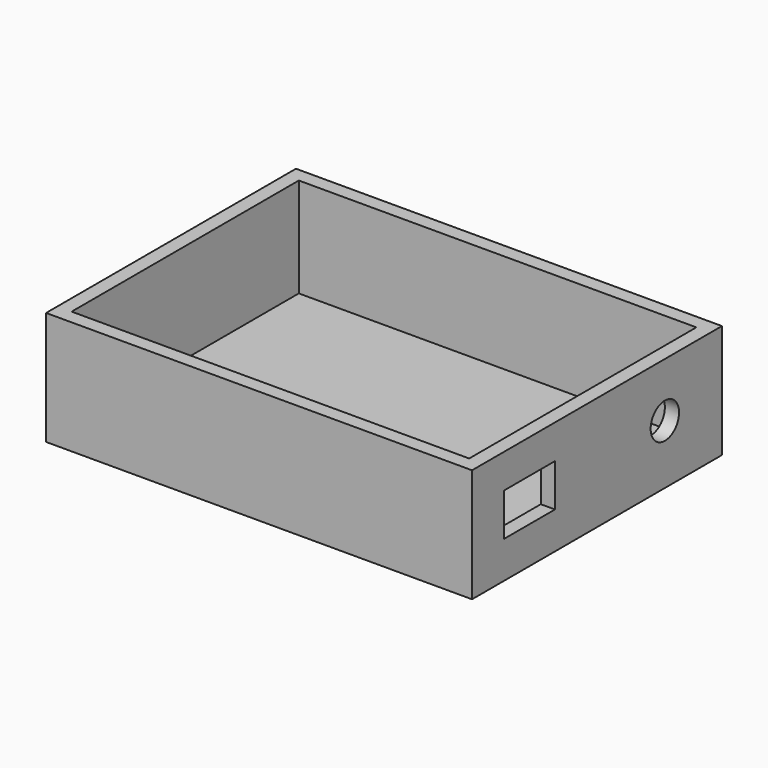
from build123d import *

# Parameters (mm, degrees)
F0_W     = 95.25
F0_H     = 69.85
F0_W_2   = 88.9
F0_H_2   = 63.5
F1_DEPTH = 25.4
F3_DEPTH = 3.175
F5_D     = 7.9375
F5_DEPTH = 12.7
F2_W     = 14.2875
F2_H     = 9.525
F6_DEPTH = 12.7


with BuildPart() as f1:
    # F0 (on Top) → F1 (new body)
    with BuildSketch(Plane.XY):
        Rectangle(F0_W, F0_H)
        Rectangle(F0_W_2, F0_H_2, mode=Mode.SUBTRACT)
    extrude(amount=F1_DEPTH)

    # F0 (on Top) → F3 (join)
    with BuildSketch(Plane.XY):
        Rectangle(F0_W_2, F0_H_2)
    extrude(amount=F3_DEPTH)

    # F5
    with Locations(Plane.YZ.offset(47.625)):
        with Locations((18.973511, 13.251342)):
            Hole(F5_D / 2, depth=F5_DEPTH)

    # F2 (on face) → F6 (cut, symmetric)
    with BuildSketch(Plane.YZ.offset(47.625)):
        with Locations((-18.882488, 13.021725)):
            Rectangle(F2_W, F2_H)
    extrude(amount=F6_DEPTH, both=True, mode=Mode.SUBTRACT)


solid = f1.part
